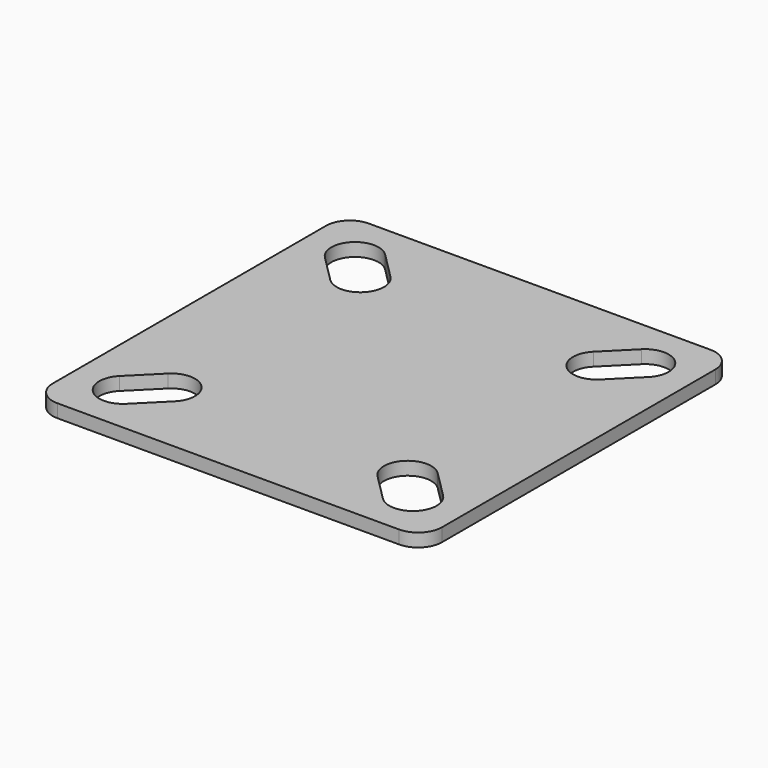
from build123d import *

# Parameters (mm, degrees)
PAD_DEPTH         = 1.7
POCKET_DEPTH      = 0.001
POCKET_DEPTH_BACK = 1.701


with BuildPart() as part:
    # Sketch001 → Pad (new body)
    with BuildSketch(Plane.XY):
        with BuildLine():
            ThreePointArc((-25.1, -22.029699), (-24.20073, -24.20073), (-22.029699, -25.1))
            Line((22.029699, -25.1), (-22.029699, -25.1))
            ThreePointArc((22.029699, -25.1), (24.20073, -24.20073), (25.1, -22.029699))
            Line((25.1, 22.029699), (25.1, -22.029699))
            ThreePointArc((25.1, 22.029699), (24.20073, 24.20073), (22.029699, 25.1))
            Line((-22.029699, 25.1), (22.029699, 25.1))
            ThreePointArc((-22.029699, 25.1), (-24.20073, 24.20073), (-25.1, 22.029699))
            Line((-25.1, -22.029699), (-25.1, 22.029699))
        make_face()
    extrude(amount=PAD_DEPTH)

    # Binder → Pocket (cut, two sides)
    with BuildSketch(Plane(origin=(-16.970563, -16.970563, 0), x_dir=(0, 1, 0), z_dir=(0, 0, 1))) as pocket_sk:
        with BuildLine():
            ThreePointArc((0.424264, 3.889087), (-3.889087, 3.889087), (-3.889087, -0.424264))
            Line((-3.889087, -0.424264), (-0.424264, -3.889087))
            ThreePointArc((-0.424264, -3.889087), (3.889087, -3.889087), (3.889087, 0.424264))
            Line((3.889087, 0.424264), (0.424264, 3.889087))
        make_face()
        with BuildLine():
            ThreePointArc((-3.889087, -33.516861), (-3.889087, -37.830213), (0.424264, -37.830213))
            Line((0.424264, -37.830213), (3.889087, -34.36539))
            ThreePointArc((3.889087, -34.36539), (3.889087, -30.052038), (-0.424264, -30.052038))
            Line((-0.424264, -30.052038), (-3.889087, -33.516861))
        make_face()
        with BuildLine():
            ThreePointArc((37.830213, -0.424264), (37.830213, 3.889087), (33.516861, 3.889087))
            Line((33.516861, 3.889087), (30.052038, 0.424264))
            ThreePointArc((30.052038, 0.424264), (30.052038, -3.889087), (34.36539, -3.889087))
            Line((34.36539, -3.889087), (37.830213, -0.424264))
        make_face()
        with BuildLine():
            ThreePointArc((33.516861, -37.830213), (37.830213, -37.830213), (37.830213, -33.516861))
            Line((37.830213, -33.516861), (34.36539, -30.052038))
            ThreePointArc((34.36539, -30.052038), (30.052038, -30.052038), (30.052038, -34.36539))
            Line((30.052038, -34.36539), (33.516861, -37.830213))
        make_face()
    extrude(amount=-POCKET_DEPTH, mode=Mode.SUBTRACT)
    extrude(pocket_sk.sketch, amount=POCKET_DEPTH_BACK, mode=Mode.SUBTRACT)


solid = part.part
